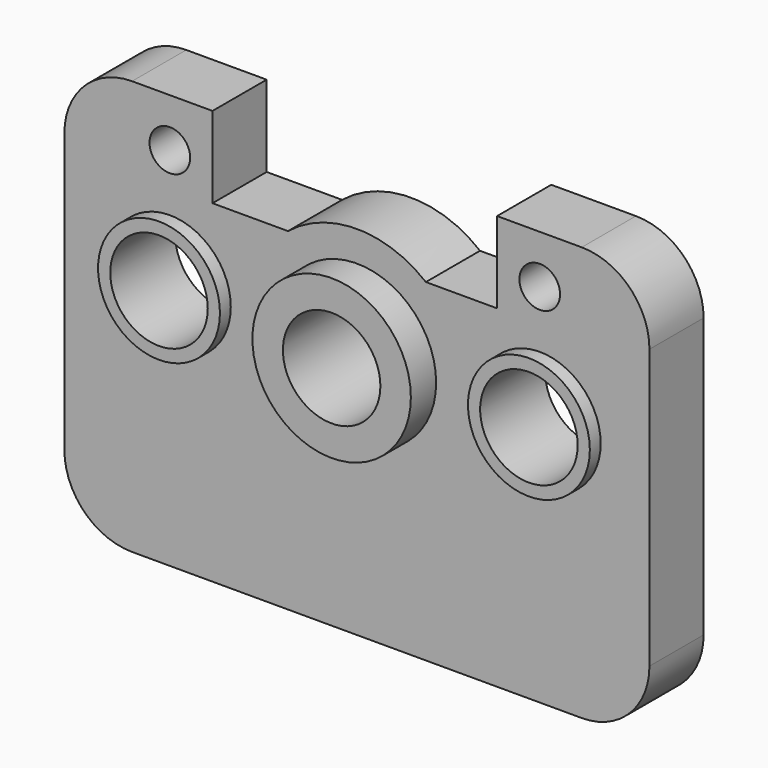
from build123d import *

# Parameters (mm, degrees)
F0_R     = 342.9
F0_R_2   = 114.3
F0_R_3   = 445.77
F1_DEPTH = 381
F0_R_4   = 274.32
F2_DEPTH = 558.8
F3_DEPTH = 457.2


with BuildPart() as f1:
    # F0 (on Front) → F1 (new body)
    with BuildSketch(Plane.XZ):
        with BuildLine():
            ThreePointArc((0, 381), (111.592316, 111.592316), (381, 0))
            Line((381, 0), (2910.84, 0))
            ThreePointArc((2910.84, 0), (3180.247684, 111.592316), (3291.84, 381))
            Line((3291.84, 381), (3291.84, 1950.72))
            ThreePointArc((3291.84, 1950.72), (3180.247684, 2220.127684), (2910.84, 2331.72))
            Line((2910.84, 2331.72), (2434.59, 2331.72))
            Line((2434.59, 2331.72), (2434.59, 1874.52))
            Line((2434.59, 1874.52), (2033.867064, 1874.52))
            ThreePointArc((2033.867064, 1874.52), (1645.92, 2011.68), (1257.972936, 1874.52))
            Line((1257.972936, 1874.52), (833.334932, 1874.52))
            Line((833.334932, 1874.52), (833.334932, 2331.72))
            Line((833.334932, 2331.72), (381, 2331.72))
            ThreePointArc((381, 2331.72), (111.592316, 2220.127684), (0, 1950.72))
            Line((0, 1950.72), (0, 381))
        make_face()
        with Locations((593.304932, 1394.46)):
            Circle(F0_R, mode=Mode.SUBTRACT)
        with Locations((593.304932, 2059.178)):
            Circle(F0_R_2, mode=Mode.SUBTRACT)
        with Locations((1645.92, 1394.46)):
            Circle(F0_R_3, mode=Mode.SUBTRACT)
        with Locations((2674.62, 1394.46)):
            Circle(F0_R, mode=Mode.SUBTRACT)
        with Locations((2674.62, 2059.178)):
            Circle(F0_R_2, mode=Mode.SUBTRACT)
    extrude(amount=F1_DEPTH)

    # F0 (on Front) → F2 (join)
    with BuildSketch(Plane.XZ):
        with Locations((1645.92, 1394.46)):
            Circle(F0_R_3)
        with Locations((1645.92, 1394.46)):
            Circle(F0_R_4, mode=Mode.SUBTRACT)
    extrude(amount=F2_DEPTH)

    # F0 (on Front) → F3 (join)
    with BuildSketch(Plane.XZ):
        with Locations((593.304932, 1394.46)):
            Circle(F0_R)
        with Locations((593.304932, 1394.46)):
            Circle(F0_R_4, mode=Mode.SUBTRACT)
        with Locations((2674.62, 1394.46)):
            Circle(F0_R)
        with Locations((2674.62, 1394.46)):
            Circle(F0_R_4, mode=Mode.SUBTRACT)
    extrude(amount=F3_DEPTH)


solid = f1.part
